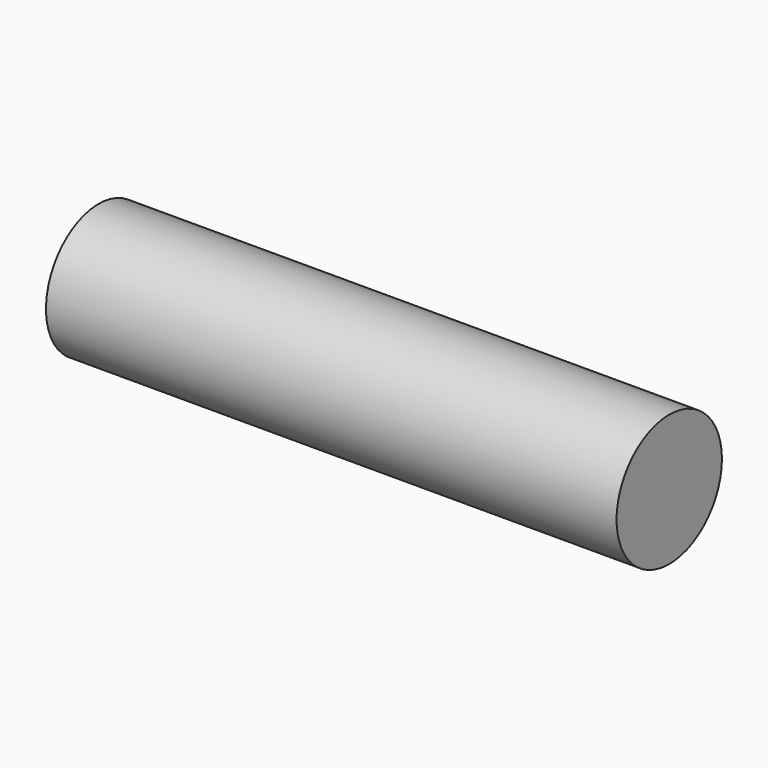
from build123d import *

# Parameters (mm, degrees)
SKETCH_R  = 1.5
PAD_DEPTH = 13


with BuildPart() as part:
    # Sketch → Pad (new body)
    with BuildSketch(Plane.YZ):
        Circle(SKETCH_R)
    extrude(amount=PAD_DEPTH)


solid = part.part
